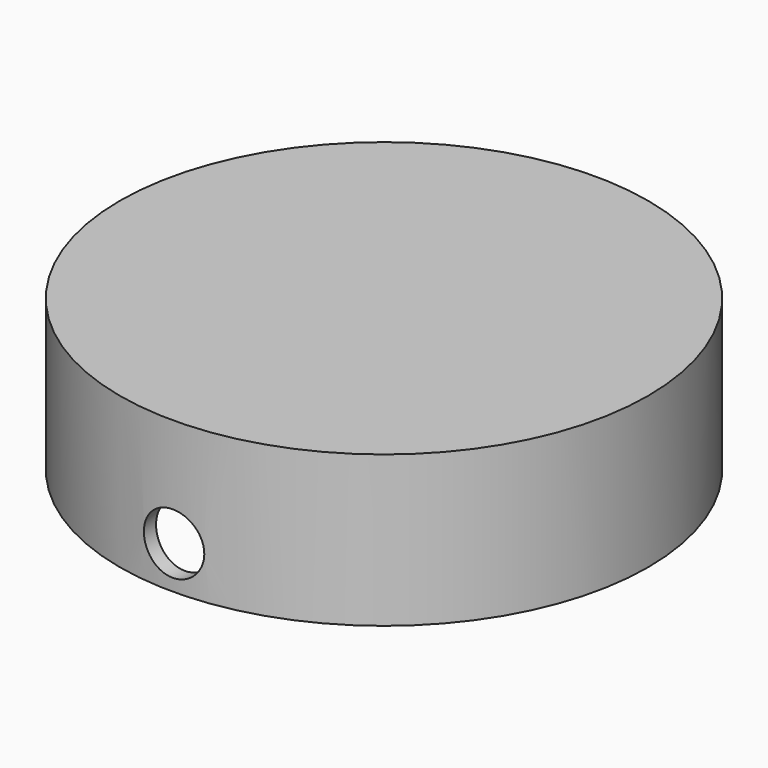
from build123d import *

# Parameters (mm, degrees)
F0_R     = 44.45
F0_R_2   = 41.91
F1_DEPTH = 25.4
F2_R     = 41.91
F2_R_2   = 38.1
F3_DEPTH = 5.08
F4_R     = 5.08
F5_DEPTH = 56.642


with BuildPart() as f1:
    # F0 (on Top) → F1 (new body)
    with BuildSketch(Plane.XY):
        Circle(F0_R)
        Circle(F0_R_2, mode=Mode.SUBTRACT)
    extrude(amount=F1_DEPTH)

    # F2 (on face) → F3 (join)
    with BuildSketch(Plane.XY.offset(25.4)):
        Circle(F2_R)
        Circle(F2_R_2, mode=Mode.SUBTRACT)
        Circle(F2_R_2)
    extrude(amount=-F3_DEPTH)

    # F4 (on Front) → F5 (cut, symmetric)
    with BuildSketch(Plane.XZ):
        with Locations((0, 7.133455)):
            Circle(F4_R)
    extrude(amount=F5_DEPTH, both=True, mode=Mode.SUBTRACT)


solid = f1.part
